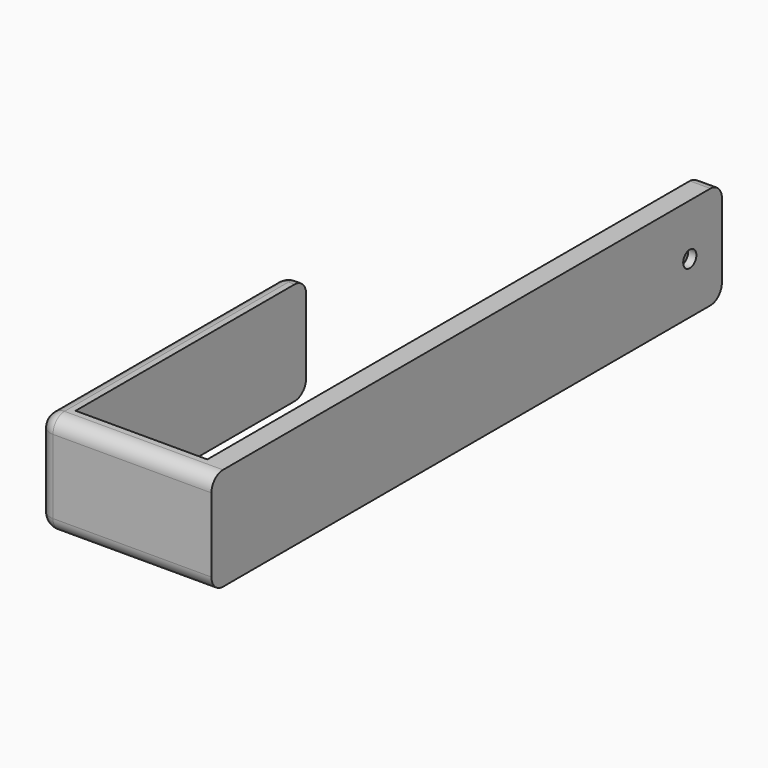
from build123d import *

# Parameters (mm, degrees)
F0_W           = 32
F0_H           = 5
F1_DEPTH       = 25
F3_D           = 4
F3_CSINK_D     = 10
F3_CSINK_ANGLE = 90
F4_R           = 3.5


with BuildPart() as f1:
    # F0 (on Top) → F1 (new body)
    with BuildSketch(Plane.XY):
        with Locations((2.365528, -44.752212)):
            Rectangle(F0_W, F0_H)
        Polygon((-18.634472, -47.252212), (-13.634472, -47.252212), (-13.634472, -42.252212), (-13.634472, 27.747788), (-18.634472, 27.747788), align=None)
        Polygon((18.365528, -42.252212), (18.365528, -47.252212), (23.365528, -47.252212), (23.365528, 107.747788), (18.365528, 107.747788), align=None)
    extrude(amount=F1_DEPTH)

    # F3 (through all)
    with Locations(Plane(origin=(18.365528, 0, 0), x_dir=(0, -1, 0), z_dir=(-1, 0, 0))):
        with Locations((-97.990669, 12.5)):
            CounterSinkHole(F3_D / 2, F3_CSINK_D / 2, counter_sink_angle=F3_CSINK_ANGLE)

    # F4
    f4_edges = [f1.edges().sort_by_distance(p)[0] for p in [
        (-16.134472, 27.747788, 0),
        (-16.134472, 27.747788, 25),
        (20.865528, 107.747788, 0),
        (20.865528, 107.747788, 25),
        (-18.634472, 27.747788, 12.5),
        (-18.634472, -9.752212, 25),
        (-18.634472, -9.752212, 0),
        (-18.634472, -47.252212, 12.5),
        (2.365528, -47.252212, 25),
        (2.365528, -47.252212, 0),
        (18.365528, 107.747788, 12.5),
    ]]
    fillet(f4_edges, radius=F4_R)


solid = f1.part
